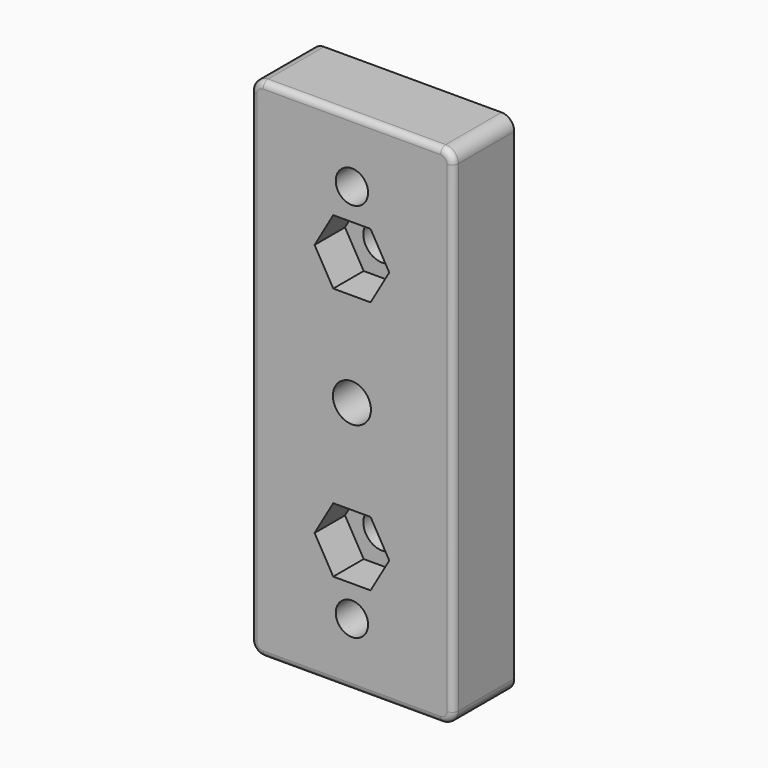
from build123d import *

# Parameters (mm, degrees)
SKETCH_W      = 32
SKETCH_H      = 80
PAD_DEPTH     = 12
SKETCH001_R   = 2.55
HOLE_DEPTH    = 25
SKETCH002_R   = 3
HOLE001_DEPTH = 12.001
SKETCH003_R   = 3
HOLE002_DEPTH = 25
FILLET_R      = 2
FILLET001_R   = 1
POCKET_DEPTH  = 6


with BuildPart() as part:
    # Sketch → Pad (new body)
    with BuildSketch(Plane.XZ):
        Rectangle(SKETCH_W, SKETCH_H)
    extrude(amount=-PAD_DEPTH)

    # Sketch001 → Hole (cut)
    with BuildSketch(Plane.XZ):
        with Locations((0, 30)):
            Circle(SKETCH001_R)
        with Locations((0, -30)):
            Circle(SKETCH001_R)
    extrude(amount=-HOLE_DEPTH, mode=Mode.SUBTRACT)

    # Sketch002 → Hole001 (cut, through all)
    with BuildSketch(Plane.XZ):
        with Locations((0, 20)):
            Circle(SKETCH002_R)
        with Locations((0, -20)):
            Circle(SKETCH002_R)
    extrude(amount=-HOLE001_DEPTH, mode=Mode.SUBTRACT)

    # Sketch003 → Hole002 (cut)
    with BuildSketch(Plane.XZ):
        Circle(SKETCH003_R)
    extrude(amount=-HOLE002_DEPTH, mode=Mode.SUBTRACT)

    # Fillet
    fillet_edges = [part.edges().sort_by_distance(p)[0] for p in [
        (-16, 6, 40),
        (16, 6, 40),
        (16, 6, -40),
        (-16, 6, -40),
    ]]
    fillet(fillet_edges, radius=FILLET_R)

    # Fillet001
    fillet001_edges = [part.edges().sort_by_distance(p)[0] for p in [
        (0, 0, -40),
        (-15.414214, 0, -39.414214),
        (-16, 0, 0),
        (-15.414214, 0, 39.414214),
        (0, 0, 40),
        (15.414214, 0, 39.414214),
        (16, 0, 0),
        (15.414214, 0, -39.414214),
    ]]
    fillet(fillet001_edges, radius=FILLET001_R)

    # Sketch004 → Pocket (cut)
    with BuildSketch(Plane.XZ):
        Polygon((2.944486, 25.1), (-2.944486, 25.1), (-5.888973, 20), (-2.944486, 14.9), (2.944486, 14.9), (5.888973, 20), align=None)
        Polygon((2.944486, -14.9), (-2.944486, -14.9), (-5.888973, -20), (-2.944486, -25.1), (2.944486, -25.1), (5.888973, -20), align=None)
    extrude(amount=-POCKET_DEPTH, mode=Mode.SUBTRACT)


solid = part.part
